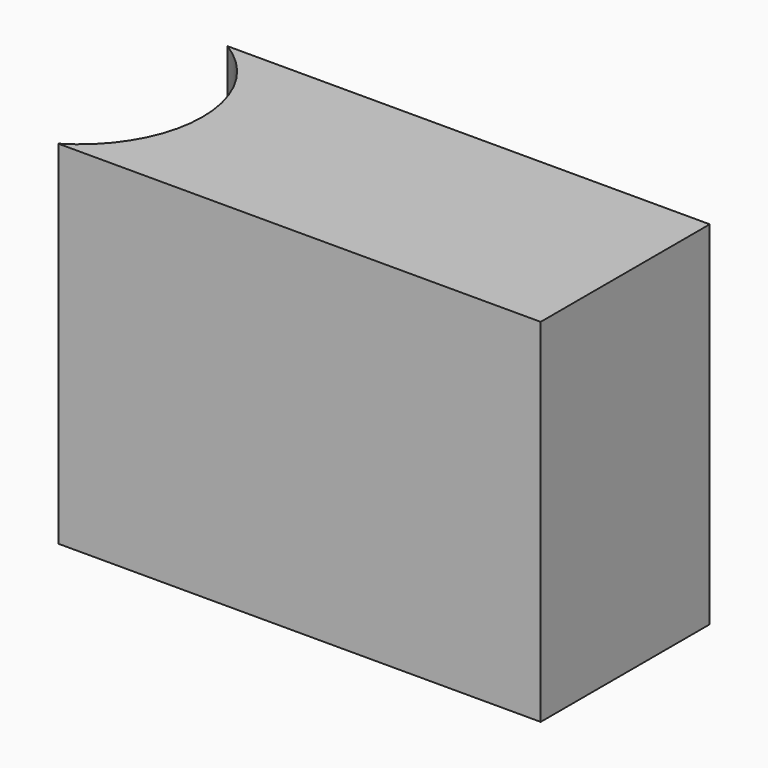
from build123d import *

# Parameters (mm, degrees)
F1_DEPTH = 10


with BuildPart() as f1:
    # F0 (on Top) → F1 (new body)
    with BuildSketch(Plane.XY):
        Polygon((0, -6), (0, 0), (-12, 0), (-12, -3), (-12, -6), align=None)
        with BuildLine():
            Line((-12, -3), (-12, 0))
            Line((-12, 0), (-13.697224, 0))
            ThreePointArc((-13.697224, 0), (-12.453714, -1.27659), (-12, -3))
        make_face()
        with BuildLine():
            Line((-12, -6), (-12, -3))
            ThreePointArc((-12, -3), (-12.453714, -4.72341), (-13.697224, -6))
            Line((-13.697224, -6), (-12, -6))
        make_face()
    extrude(amount=F1_DEPTH)


solid = f1.part
